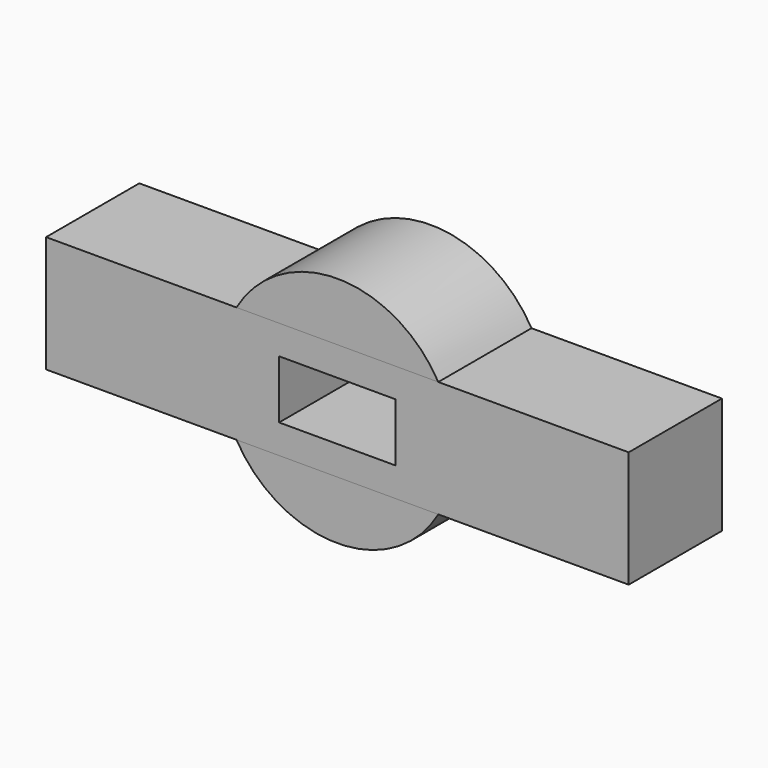
from build123d import *

# Parameters (mm, degrees)
F0_W     = 127
F0_H     = 25.4
F2_DEPTH = 25.4
F3_W     = 25.4
F3_H     = 12.7
F4_DEPTH = 25.4


with BuildPart() as f2:
    # F0 (on Front) → F2 (new body)
    with BuildSketch(Plane.XZ):
        Rectangle(F0_W, F0_H)
    extrude(amount=F2_DEPTH)

    # F3 (on face) → F4 (cut)
    with BuildSketch(Plane.XZ.offset(25.4)):
        Rectangle(F3_W, F3_H)
    extrude(amount=-F4_DEPTH, mode=Mode.SUBTRACT)


with BuildPart() as f2b:
    # F1 (on face) → F2, piece 2 (new body)
    with BuildSketch(Plane.XZ):
        with BuildLine():
            Line((-21.9970452561, 12.7), (21.9970452561, 12.7))
            ThreePointArc((21.9970452561, 12.7), (0, 25.4), (-21.9970452561, 12.7))
        make_face()
    extrude(amount=F2_DEPTH)


with BuildPart() as f2c:
    # F1 (on face) → F2, piece 3 (new body)
    with BuildSketch(Plane.XZ):
        with BuildLine():
            ThreePointArc((-21.9970452561, -12.7), (0, -25.4), (21.9970452561, -12.7))
            Line((21.9970452561, -12.7), (-21.9970452561, -12.7))
        make_face()
    extrude(amount=F2_DEPTH)


solid = Compound([f2.part, f2b.part, f2c.part])
